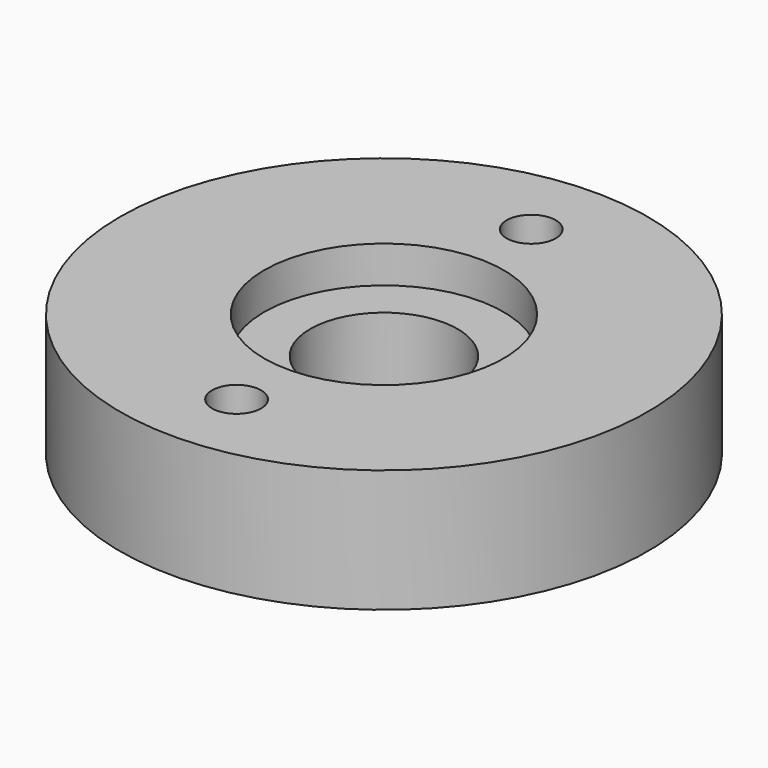
from build123d import *

# Parameters (mm, degrees)
CYLINDER010_R               = 2
CYLINDER010_DEPTH           = 15
CYLINDER011_R               = 2
CYLINDER011_DEPTH           = 15
CYLINDER011_PLACEMENT_ANGLE = 1
CYLINDER009_R               = 6
CYLINDER009_DEPTH           = 20
CYLINDER007_R               = 9.75
CYLINDER007_DEPTH           = 6
CYLINDER003_R               = 21.5
CYLINDER003_DEPTH           = 10
CUT005_PLACEMENT_ANGLE      = 180


with BuildPart() as cylinder010:
    # Cylinder010 → Cylinder010 (new body)
    with BuildSketch(Plane(origin=(0, 15, -1), x_dir=(1, 0, 0), z_dir=(0, 0, 1))):
        Circle(CYLINDER010_R)
    extrude(amount=CYLINDER010_DEPTH)


with BuildPart() as fusion003:
    # Cylinder011 → Cylinder011 (new body)
    with BuildSketch(Plane.XY):
        Circle(CYLINDER011_R)
    extrude(amount=CYLINDER011_DEPTH)


with BuildPart() as fusion003_1:
    # Cylinder011 placement: moved
    add(fusion003.part.moved(Location((0, -15, -1))).rotate(Axis((0, -15, -1), (0, 0, 1)), CYLINDER011_PLACEMENT_ANGLE))

    # Fusion003: union Cylinder010
    add(cylinder010.part)


with BuildPart() as cylinder009:
    # Cylinder009 → Cylinder009 (new body)
    with BuildSketch(Plane.XY):
        Circle(CYLINDER009_R)
    extrude(amount=CYLINDER009_DEPTH)


with BuildPart() as cylinder007:
    # Cylinder007 → Cylinder007 (new body)
    with BuildSketch(Plane.XY):
        Circle(CYLINDER007_R)
    extrude(amount=CYLINDER007_DEPTH)


with BuildPart() as small_bearing_ring001:
    # Cylinder003 → Cylinder003 (new body)
    with BuildSketch(Plane.XY.offset(3)):
        Circle(CYLINDER003_R)
    extrude(amount=CYLINDER003_DEPTH)

    # Cut006: cut Cylinder007
    add(cylinder007.part, mode=Mode.SUBTRACT)

    # Cut005: cut Cylinder009
    add(cylinder009.part, mode=Mode.SUBTRACT)


with BuildPart() as small_bearing_ring001_1:
    # Cut005 placement: moved
    add(small_bearing_ring001.part.moved(Location((0, 0, 13))).rotate(Axis((0, 0, 13), (0, 1, 0)), CUT005_PLACEMENT_ANGLE))

    # Cut008: cut Fusion003
    add(fusion003_1.part, mode=Mode.SUBTRACT)


with BuildPart() as small_bearing_ring001_2:
    # Cut008 placement: moved
    add(small_bearing_ring001_1.part.moved(Location((0, -57, 0))))


solid = small_bearing_ring001_2.part
